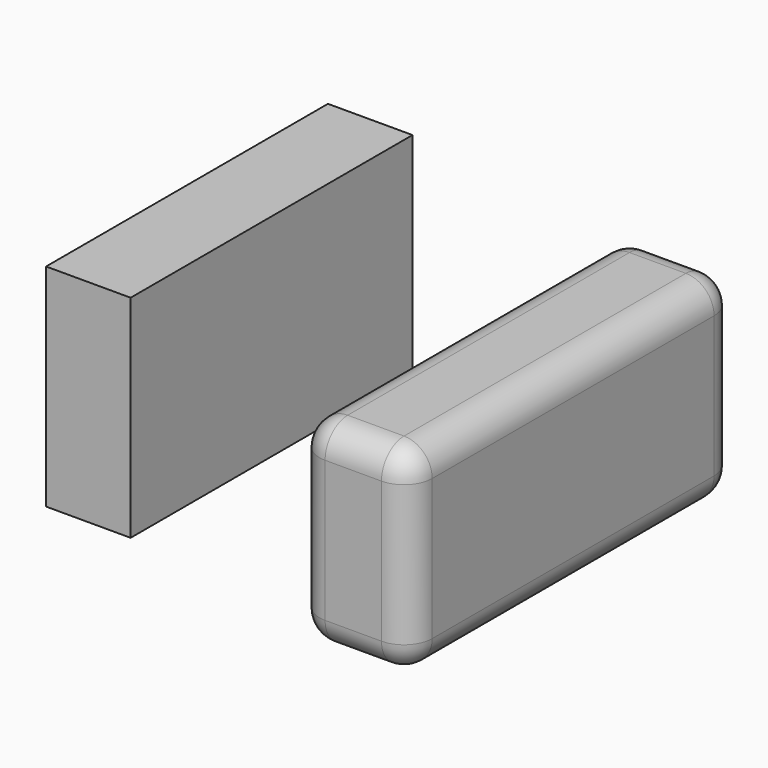
from build123d import *

# Parameters (mm, degrees)
F0_W     = 6
F0_H     = 25
F1_DEPTH = 15
F2_W     = 8
F2_H     = 29
F3_DEPTH = 14
F4_R     = 2


with BuildPart() as f1:
    # F0 (on Top) → F1 (new body)
    with BuildSketch(Plane.XY):
        with Locations((-3, -12.5)):
            Rectangle(F0_W, F0_H)
    extrude(amount=F1_DEPTH)


with BuildPart() as f3:
    # F2 (on Top) → F3 (new body)
    with BuildSketch(Plane.XY):
        with Locations((19, -14.5)):
            Rectangle(F2_W, F2_H)
    extrude(amount=F3_DEPTH)

    # F4
    f4_edges = [f3.edges().sort_by_distance(p)[0] for p in [
        (23, -29, 7),
        (15, -29, 7),
        (23, 0, 7),
        (15, 0, 7),
        (19, -29, 14),
        (23, -14.5, 14),
        (15, -14.5, 14),
        (19, 0, 14),
        (15, -14.5, 0),
        (23, -14.5, 0),
        (19, -29, 0),
        (19, 0, 0),
    ]]
    fillet(f4_edges, radius=F4_R)


solid = Compound([f1.part, f3.part])
